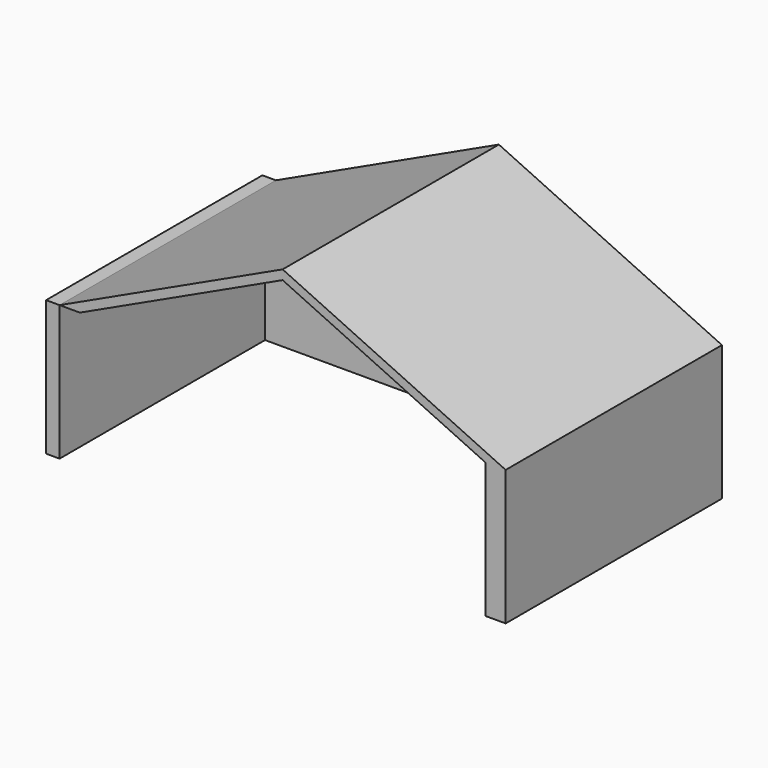
from build123d import *

# Parameters (mm, degrees)
F0_W     = 25.4
F0_H     = 254
F1_DEPTH = 508
F0_W_2   = 38.1
F2_DEPTH = 508
F3_DEPTH = 508
F4_DEPTH = 25.4
F5_DEPTH = 25.4


with BuildPart() as f1:
    # F0 (on Front) → F1 (new body)
    with BuildSketch(Plane.XZ):
        with Locations((-12.7, -9.709484)):
            Rectangle(F0_W, F0_H)
    extrude(amount=F1_DEPTH)



with BuildPart() as f2:
    # F0 (on Front) → F2 (new body)
    with BuildSketch(Plane.XZ):
        with Locations((819.15, -9.709484)):
            Rectangle(F0_W_2, F0_H)
    extrude(amount=F2_DEPTH)


with BuildPart() as f1_1:
    add(f1.part)

    add(f2.part)  # F3 merges F2
    # F0 (on Front) → F3 (join)
    with BuildSketch(Plane.XZ):
        Polygon((419.1, 312.720056), (0, 117.290516), (38.1, 117.290516), (419.1, 294.953734), (800.1, 117.290516), (838.2, 117.290516), align=None)
    extrude(amount=F3_DEPTH)


with BuildPart() as f4:
    # F0 (on Front) → F4 (new body)
    with BuildSketch(Plane.XZ):
        Polygon((38.1, 117.290516), (0, 117.290516), (0, -136.709484), (76.2, -136.709484), (800.1, -136.709484), (800.1, 117.290516), align=None)
    extrude(amount=F4_DEPTH)


with BuildPart() as f5:
    # F0 (on Front) → F5 (new body)
    with BuildSketch(Plane.XZ):
        Polygon((419.1, 294.953734), (38.1, 117.290516), (800.1, 117.290516), align=None)
    extrude(amount=F5_DEPTH)


solid = Compound([f1_1.part, f4.part, f5.part])
